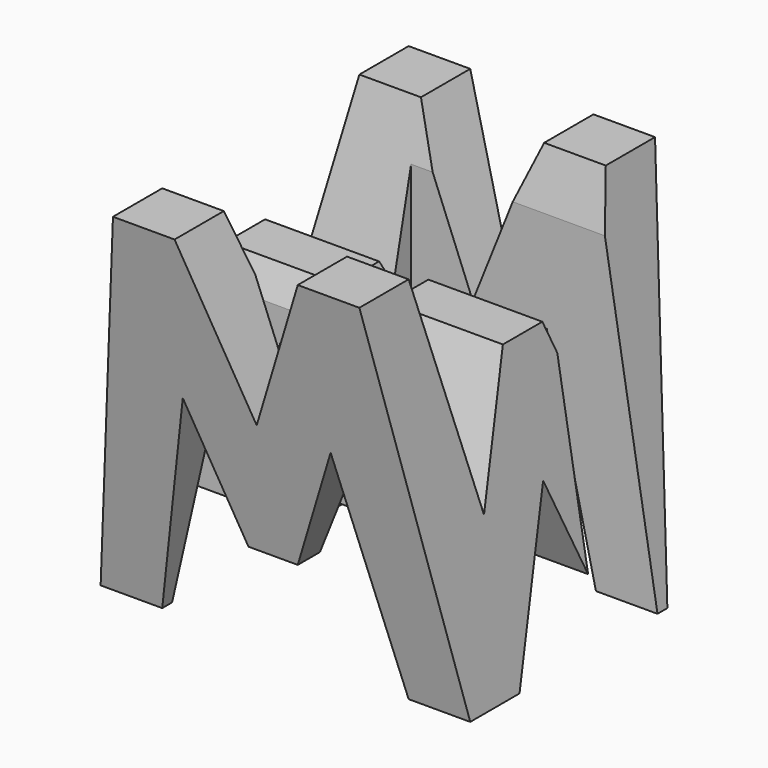
from build123d import *

# Parameters (mm, degrees)
F0_W      = 38.1
F0_H      = 38.1
F1_DEPTH  = 38.1
F6_DEPTH  = 38.1
F8_DEPTH  = 38.1
F9_W      = 25.4
F9_H      = 7.62
F10_DEPTH = 38.1


with BuildPart() as f1:
    # F0 (on Front) → F1 (new body)
    with BuildSketch(Plane.XZ):
        with Locations((19.05, 19.05)):
            Rectangle(F0_W, F0_H)
    extrude(amount=F1_DEPTH)

    # F5 (on offset) → F6 (cut)
    with BuildSketch(Plane.YZ.offset(38.1)):
        Polygon((-11.43, 15.875), (-6.35, 38.1), (-31.75, 38.1), (-26.67, 15.875), (-21.59, 28.575), (-16.51, 28.575), align=None)
        Polygon((-31.75, 0), (-38.1, 38.1), (-38.1, 0), align=None)
        Polygon((-25.4, 0), (-12.7, 0), (-19.05, 15.875), align=None)
        Polygon((-6.35, 0), (0, 0), (0, 38.1), align=None)
    extrude(amount=-F6_DEPTH, mode=Mode.SUBTRACT)

    # F7 (on offset) → F8 (cut)
    with BuildSketch(Plane.XZ.offset(38.1)):
        Polygon((25.4, 38.1), (12.7, 38.1), (19.05, 22.225), align=None)
        Polygon((31.75, 38.1), (38.1, 0), (38.1, 38.1), align=None)
        Polygon((6.35, 38.1), (0, 38.1), (0, 0), align=None)
        Polygon((11.43, 22.225), (6.35, 0), (31.75, 0), (26.67, 22.225), (21.59, 9.525), (16.51, 9.525), align=None)
    extrude(amount=-F8_DEPTH, mode=Mode.SUBTRACT)

    # F9 (on offset) → F10 (cut)
    with BuildSketch(Plane.XY.offset(38.1)):
        with Locations((12.7, -26.67)):
            Rectangle(F9_W, F9_H)
        with Locations((25.4, -11.43)):
            Rectangle(F9_W, F9_H)
    extrude(amount=-F10_DEPTH, mode=Mode.SUBTRACT)


solid = f1.part
